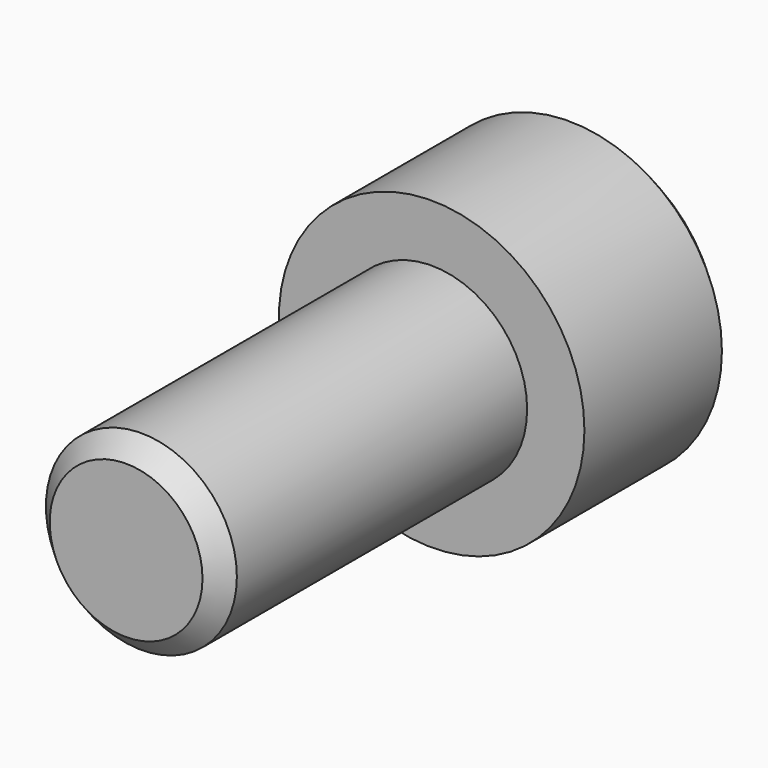
from build123d import *

# Parameters (mm, degrees)
F0_R     = 8
F1_DEPTH = 10
F2_R     = 5
F3_DEPTH = 20
F4_SIZE  = 1
F6_DEPTH = 5


with BuildPart() as f1:
    # F0 (on Front) → F1 (new body)
    with BuildSketch(Plane.XZ):
        Circle(F0_R)
    extrude(amount=F1_DEPTH)

    # F2 (on face) → F3 (join)
    with BuildSketch(Plane.XZ.offset(10)):
        Circle(F2_R)
    extrude(amount=F3_DEPTH)

    # F4
    f4_edges = [f1.edges().sort_by_distance(p)[0] for p in [
        (-5, -30, 0),
        (-8, 0, 0),
    ]]
    chamfer(f4_edges, length=F4_SIZE)

    # F5 (on face) → F6 (cut)
    with BuildSketch(Plane(origin=(0, 0, 0), x_dir=(-1, 0, 0), z_dir=(0, 1, 0))):
        Polygon((-4.618402, 0.06081), (-2.361864, -3.969249), (2.256538, -4.030058), (4.618402, -0.06081), (2.361864, 3.969249), (-2.256538, 4.030058), align=None)
    extrude(amount=-F6_DEPTH, mode=Mode.SUBTRACT)


solid = f1.part
